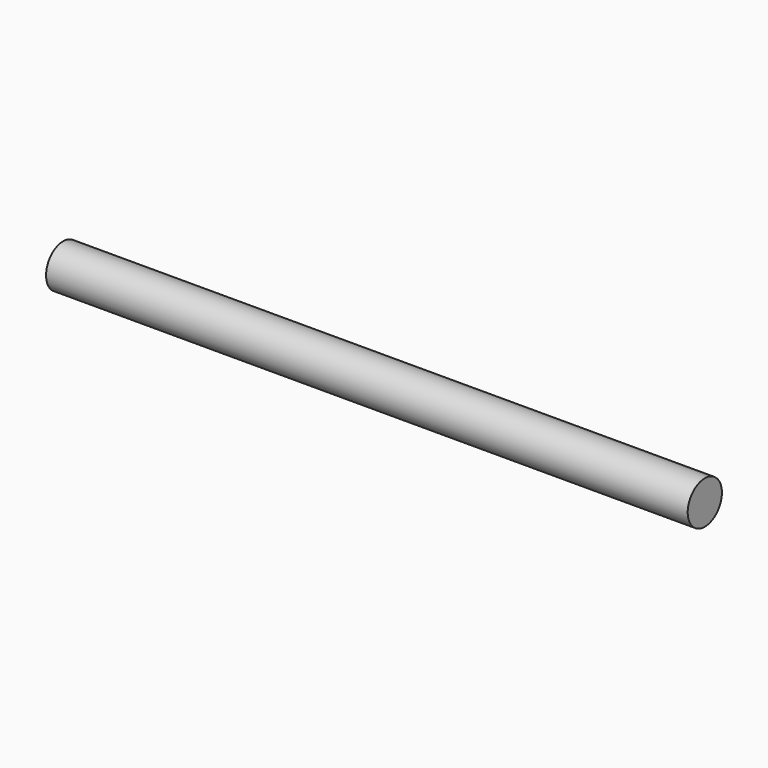
from build123d import *

# Parameters (mm, degrees)
F1_R = 2.5


with BuildPart() as f2:
    # F2: sweep along a path in F0
    with BuildLine(Plane.XY) as f2_path:
        Line((0, 0), (-75, 0))
    # F1 (on Right) → F2 (sweep)
    with BuildSketch(Plane.YZ):
        Circle(F1_R)
    sweep(path=f2_path.line)


solid = f2.part
